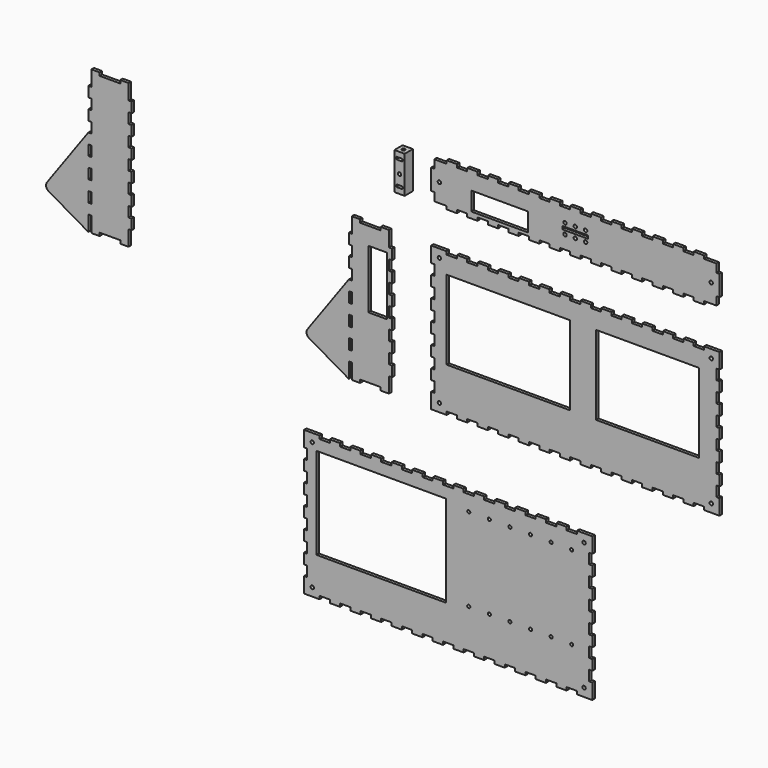
from build123d import *

# Parameters (mm, degrees)
F0_W      = 3
F0_H      = 10
F0_W_2    = 18
F0_H_2    = 57
F0_R      = 1.65
F0_W_3    = 120
F0_H_3    = 77
F0_W_4    = 100
F0_W_5    = 55
F0_H_4    = 18
F0_W_6    = 25
F0_H_5    = 3
F0_W_7    = 126
F0_H_6    = 89
F0_R_2    = 1.5
F1_DEPTH  = 3
F0_W_8    = 10
F0_H_7    = 36
F2_DEPTH  = 10
F3_R      = 1.65
F4_DEPTH  = 10
F5_R      = 1.65
F6_DEPTH  = 3
F7_R      = 1.65
F8_DEPTH  = 36
F9_W      = 6.2
F9_H      = 2.4
F10_DEPTH = 10


with BuildPart() as f1:
    # F0 (on Front) → F1 (new body)
    with BuildSketch(Plane.XZ):
        with BuildLine():
            Line((-369.000968, 86.84997), (-369.000968, 101.84997))
            Line((-369.000968, 101.84997), (-377.000968, 101.84997))
            Line((-377.000968, 101.84997), (-377.000968, 98.84997))
            Line((-377.000968, 98.84997), (-397.000968, 98.84997))
            Line((-397.000968, 98.84997), (-397.000968, 101.84997))
            Line((-397.000968, 101.84997), (-405.000968, 101.84997))
            Line((-405.000968, 101.84997), (-405.000968, 86.84997))
            Line((-405.000968, 86.84997), (-408.000968, 86.84997))
            Line((-408.000968, 86.84997), (-408.000968, 76.84997))
            Line((-408.000968, 76.84997), (-405.000968, 76.84997))
            Line((-405.000968, 76.84997), (-405.000968, 66.84997))
            Line((-405.000968, 66.84997), (-408.000968, 66.84997))
            Line((-408.000968, 66.84997), (-408.000968, 56.84997))
            Line((-408.000968, 56.84997), (-405.000968, 56.84997))
            Line((-405.000968, 56.84997), (-405.000968, 46.84997))
            Line((-405.000968, 46.84997), (-408.044243, 46.84997))
            Line((-408.044243, 46.84997), (-448.106217, -8.66153))
            ThreePointArc((-448.106217, -8.66153), (-448.940869, -12.634903), (-446.551793, -15.917685))
            Line((-446.551793, -15.917685), (-408.044243, -38.15003))
            Line((-408.044243, -38.15003), (-408.044243, -23.15003))
            Line((-408.044243, -23.15003), (-405.000968, -23.15003))
            Line((-405.000968, -23.15003), (-405.000968, -38.15003))
            Line((-405.000968, -38.15003), (-397.000968, -38.15003))
            Line((-397.000968, -38.15003), (-397.000968, -35.15003))
            Line((-397.000968, -35.15003), (-377.000968, -35.15003))
            Line((-377.000968, -35.15003), (-377.000968, -38.15003))
            Line((-377.000968, -38.15003), (-369.000968, -38.15003))
            Line((-369.000968, -38.15003), (-369.000968, -23.15003))
            Line((-369.000968, -23.15003), (-366.000968, -23.15003))
            Line((-366.000968, -23.15003), (-366.000968, -13.15003))
            Line((-366.000968, -13.15003), (-369.000968, -13.15003))
            Line((-369.000968, -13.15003), (-369.000968, -3.15003))
            Line((-369.000968, -3.15003), (-366.000968, -3.15003))
            Line((-366.000968, -3.15003), (-366.000968, 6.84997))
            Line((-366.000968, 6.84997), (-369.000968, 6.84997))
            Line((-369.000968, 6.84997), (-369.000968, 16.84997))
            Line((-369.000968, 16.84997), (-366.000968, 16.84997))
            Line((-366.000968, 16.84997), (-366.000968, 26.84997))
            Line((-366.000968, 26.84997), (-369.000968, 26.84997))
            Line((-369.000968, 26.84997), (-369.000968, 36.84997))
            Line((-369.000968, 36.84997), (-366.000968, 36.84997))
            Line((-366.000968, 36.84997), (-366.000968, 46.84997))
            Line((-366.000968, 46.84997), (-369.000968, 46.84997))
            Line((-369.000968, 46.84997), (-369.000968, 56.84997))
            Line((-369.000968, 56.84997), (-366.000968, 56.84997))
            Line((-366.000968, 56.84997), (-366.000968, 66.84997))
            Line((-366.000968, 66.84997), (-369.000968, 66.84997))
            Line((-369.000968, 66.84997), (-369.000968, 76.84997))
            Line((-369.000968, 76.84997), (-366.000968, 76.84997))
            Line((-366.000968, 76.84997), (-366.000968, 86.84997))
            Line((-366.000968, 86.84997), (-369.000968, 86.84997))
        make_face()
        with Locations((-406.500968, -8.15003)):
            Rectangle(F0_W, F0_H, mode=Mode.SUBTRACT)
        with Locations((-406.500968, 11.84997)):
            Rectangle(F0_W, F0_H, mode=Mode.SUBTRACT)
        with Locations((-406.500968, 31.84997)):
            Rectangle(F0_W, F0_H, mode=Mode.SUBTRACT)
        with BuildLine():
            Line((-116.03777, 43.5), (-116.03777, 58.5))
            Line((-116.03777, 58.5), (-124.03777, 58.5))
            Line((-124.03777, 58.5), (-124.03777, 55.5))
            Line((-124.03777, 55.5), (-144.03777, 55.5))
            Line((-144.03777, 55.5), (-144.03777, 58.5))
            Line((-144.03777, 58.5), (-152.03777, 58.5))
            Line((-152.03777, 58.5), (-152.03777, 43.5))
            Line((-152.03777, 43.5), (-155.03777, 43.5))
            Line((-155.03777, 43.5), (-155.03777, 33.5))
            Line((-155.03777, 33.5), (-152.03777, 33.5))
            Line((-152.03777, 33.5), (-152.03777, 23.5))
            Line((-152.03777, 23.5), (-155.03777, 23.5))
            Line((-155.03777, 23.5), (-155.03777, 13.5))
            Line((-155.03777, 13.5), (-152.03777, 13.5))
            Line((-152.03777, 13.5), (-152.03777, 3.5))
            Line((-152.03777, 3.5), (-155.03777, 3.5))
            Line((-155.03777, 3.5), (-195.099744, -52.0115))
            ThreePointArc((-195.099744, -52.0115), (-195.934396, -55.984874), (-193.54532, -59.267656))
            Line((-193.54532, -59.267656), (-155.03777, -81.5))
            Line((-155.03777, -81.5), (-155.03777, -66.5))
            Line((-155.03777, -66.5), (-152.03777, -66.5))
            Line((-152.03777, -66.5), (-152.03777, -81.5))
            Line((-152.03777, -81.5), (-144.03777, -81.5))
            Line((-144.03777, -81.5), (-144.03777, -78.5))
            Line((-144.03777, -78.5), (-124.03777, -78.5))
            Line((-124.03777, -78.5), (-124.03777, -81.5))
            Line((-124.03777, -81.5), (-116.03777, -81.5))
            Line((-116.03777, -81.5), (-116.03777, -66.5))
            Line((-116.03777, -66.5), (-113.03777, -66.5))
            Line((-113.03777, -66.5), (-113.03777, -56.5))
            Line((-113.03777, -56.5), (-116.03777, -56.5))
            Line((-116.03777, -56.5), (-116.03777, -46.5))
            Line((-116.03777, -46.5), (-113.03777, -46.5))
            Line((-113.03777, -46.5), (-113.03777, -36.5))
            Line((-113.03777, -36.5), (-116.03777, -36.5))
            Line((-116.03777, -36.5), (-116.03777, -26.5))
            Line((-116.03777, -26.5), (-113.03777, -26.5))
            Line((-113.03777, -26.5), (-113.03777, -16.5))
            Line((-113.03777, -16.5), (-116.03777, -16.5))
            Line((-116.03777, -16.5), (-116.03777, -6.5))
            Line((-116.03777, -6.5), (-113.03777, -6.5))
            Line((-113.03777, -6.5), (-113.03777, 3.5))
            Line((-113.03777, 3.5), (-116.03777, 3.5))
            Line((-116.03777, 3.5), (-116.03777, 13.5))
            Line((-116.03777, 13.5), (-113.03777, 13.5))
            Line((-113.03777, 13.5), (-113.03777, 23.5))
            Line((-113.03777, 23.5), (-116.03777, 23.5))
            Line((-116.03777, 23.5), (-116.03777, 33.5))
            Line((-116.03777, 33.5), (-113.03777, 33.5))
            Line((-113.03777, 33.5), (-113.03777, 43.5))
            Line((-113.03777, 43.5), (-116.03777, 43.5))
        make_face()
        with Locations((-153.53777, -51.5)):
            Rectangle(F0_W, F0_H, mode=Mode.SUBTRACT)
        with Locations((-153.53777, -31.5)):
            Rectangle(F0_W, F0_H, mode=Mode.SUBTRACT)
        with Locations((-153.53777, -11.5)):
            Rectangle(F0_W, F0_H, mode=Mode.SUBTRACT)
        with Locations((-127.03777, 10)):
            Rectangle(F0_W_2, F0_H_2, mode=Mode.SUBTRACT)
        Polygon((-75, -66.5), (-75, -81.5), (-60, -81.5), (-60, -78.5), (-50, -78.5), (-50, -81.5), (-40, -81.5), (-40, -78.5), (-30, -78.5), (-30, -81.5), (-20, -81.5), (-20, -78.5), (-10, -78.5), (-10, -81.5), (0, -81.5), (0, -78.5), (10, -78.5), (10, -81.5), (20, -81.5), (20, -78.5), (30, -78.5), (30, -81.5), (40, -81.5), (40, -78.5), (50, -78.5), (50, -81.5), (60, -81.5), (60, -78.5), (70, -78.5), (70, -81.5), (80, -81.5), (80, -78.5), (90, -78.5), (90, -81.5), (100, -81.5), (100, -78.5), (110, -78.5), (110, -81.5), (120, -81.5), (120, -78.5), (130, -78.5), (130, -81.5), (140, -81.5), (140, -78.5), (150, -78.5), (150, -81.5), (160, -81.5), (160, -78.5), (170, -78.5), (170, -81.5), (180, -81.5), (180, -78.5), (190, -78.5), (190, -81.5), (205, -81.5), (205, -66.5), (202, -66.5), (202, -56.5), (205, -56.5), (205, -46.5), (202, -46.5), (202, -36.5), (205, -36.5), (205, -26.5), (202, -26.5), (202, -16.5), (205, -16.5), (205, -6.5), (202, -6.5), (202, 3.5), (205, 3.5), (205, 13.5), (202, 13.5), (202, 23.5), (205, 23.5), (205, 33.5), (202, 33.5), (202, 43.5), (205, 43.5), (205, 58.5), (190, 58.5), (190, 55.5), (180, 55.5), (180, 58.5), (170, 58.5), (170, 55.5), (160, 55.5), (160, 58.5), (150, 58.5), (150, 55.5), (140, 55.5), (140, 58.5), (130, 58.5), (130, 55.5), (120, 55.5), (120, 58.5), (110, 58.5), (110, 55.5), (100, 55.5), (100, 58.5), (90, 58.5), (90, 55.5), (80, 55.5), (80, 58.5), (70, 58.5), (70, 55.5), (60, 55.5), (60, 58.5), (50, 58.5), (50, 55.5), (40, 55.5), (40, 58.5), (30, 58.5), (30, 55.5), (20, 55.5), (20, 58.5), (10, 58.5), (10, 55.5), (0, 55.5), (0, 58.5), (-10, 58.5), (-10, 55.5), (-20, 55.5), (-20, 58.5), (-30, 58.5), (-30, 55.5), (-40, 55.5), (-40, 58.5), (-50, 58.5), (-50, 55.5), (-60, 55.5), (-60, 58.5), (-75, 58.5), (-75, 43.5), (-72, 43.5), (-72, 33.5), (-75, 33.5), (-75, 23.5), (-72, 23.5), (-72, 13.5), (-75, 13.5), (-75, 3.5), (-72, 3.5), (-72, -6.5), (-75, -6.5), (-75, -16.5), (-72, -16.5), (-72, -26.5), (-75, -26.5), (-75, -36.5), (-72, -36.5), (-72, -46.5), (-75, -46.5), (-75, -56.5), (-72, -56.5), (-72, -66.5), align=None)
        with Locations((-67, -73.5)):
            Circle(F0_R, mode=Mode.SUBTRACT)
        with Locations((197, -73.5)):
            Circle(F0_R, mode=Mode.SUBTRACT)
        Rectangle(F0_W_3, F0_H_3, mode=Mode.SUBTRACT)
        with Locations((135, 0)):
            Rectangle(F0_W_4, F0_H_3, mode=Mode.SUBTRACT)
        with Locations((-67, 50.5)):
            Circle(F0_R, mode=Mode.SUBTRACT)
        with Locations((197, 50.5)):
            Circle(F0_R, mode=Mode.SUBTRACT)
        Polygon((-60, 97.254502), (-60, 94.254502), (-50, 94.254502), (-50, 97.254502), (-40, 97.254502), (-40, 94.254502), (-30, 94.254502), (-30, 97.254502), (-20, 97.254502), (-20, 94.254502), (-10, 94.254502), (-10, 97.254502), (0, 97.254502), (0, 94.254502), (10, 94.254502), (10, 97.254502), (20, 97.254502), (20, 94.254502), (30, 94.254502), (30, 97.254502), (40, 97.254502), (40, 94.254502), (50, 94.254502), (50, 97.254502), (60, 97.254502), (60, 94.254502), (70, 94.254502), (70, 97.254502), (80, 97.254502), (80, 94.254502), (90, 94.254502), (90, 97.254502), (100, 97.254502), (100, 94.254502), (110, 94.254502), (110, 97.254502), (120, 97.254502), (120, 94.254502), (130, 94.254502), (130, 97.254502), (140, 97.254502), (140, 94.254502), (150, 94.254502), (150, 97.254502), (160, 97.254502), (160, 94.254502), (170, 94.254502), (170, 97.254502), (180, 97.254502), (180, 94.254502), (190, 94.254502), (190, 97.254502), (202, 97.254502), (202, 105.254502), (205, 105.254502), (205, 125.254502), (202, 125.254502), (202, 133.254502), (190, 133.254502), (190, 136.254502), (180, 136.254502), (180, 133.254502), (170, 133.254502), (170, 136.254502), (160, 136.254502), (160, 133.254502), (150, 133.254502), (150, 136.254502), (140, 136.254502), (140, 133.254502), (130, 133.254502), (130, 136.254502), (120, 136.254502), (120, 133.254502), (110, 133.254502), (110, 136.254502), (100, 136.254502), (100, 133.254502), (90, 133.254502), (90, 136.254502), (80, 136.254502), (80, 133.254502), (70, 133.254502), (70, 136.254502), (60, 136.254502), (60, 133.254502), (50, 133.254502), (50, 136.254502), (40, 136.254502), (40, 133.254502), (30, 133.254502), (30, 136.254502), (20, 136.254502), (20, 133.254502), (10, 133.254502), (10, 136.254502), (0, 136.254502), (0, 133.254502), (-10, 133.254502), (-10, 136.254502), (-20, 136.254502), (-20, 133.254502), (-30, 133.254502), (-30, 136.254502), (-40, 136.254502), (-40, 133.254502), (-50, 133.254502), (-50, 136.254502), (-60, 136.254502), (-60, 133.254502), (-72, 133.254502), (-72, 125.254502), (-75, 125.254502), (-75, 105.254502), (-72, 105.254502), (-72, 97.254502), align=None)
        with Locations((-67, 115.254502)):
            Circle(F0_R, mode=Mode.SUBTRACT)
        with Locations((-8.5, 109.254502)):
            Rectangle(F0_W_5, F0_H_4, mode=Mode.SUBTRACT)
        with Locations((55, 110.254502)):
            Circle(F0_R, mode=Mode.SUBTRACT)
        with Locations((65, 110.254502)):
            Circle(F0_R, mode=Mode.SUBTRACT)
        with Locations((75, 110.254502)):
            Circle(F0_R, mode=Mode.SUBTRACT)
        with Locations((55, 120.254502)):
            Circle(F0_R, mode=Mode.SUBTRACT)
        with Locations((65, 115.254502)):
            Rectangle(F0_W_6, F0_H_5, mode=Mode.SUBTRACT)
        with Locations((65, 120.254502)):
            Circle(F0_R, mode=Mode.SUBTRACT)
        with Locations((75, 120.254502)):
            Circle(F0_R, mode=Mode.SUBTRACT)
        with Locations((197, 115.254502)):
            Circle(F0_R, mode=Mode.SUBTRACT)
        Polygon((-183.5, -139.251875), (-198.5, -139.251875), (-198.5, -154.251875), (-195.5, -154.251875), (-195.5, -164.251875), (-198.5, -164.251875), (-198.5, -174.251875), (-195.5, -174.251875), (-195.5, -184.251875), (-198.5, -184.251875), (-198.5, -194.251875), (-195.5, -194.251875), (-195.5, -204.251875), (-198.5, -204.251875), (-198.5, -214.251875), (-195.5, -214.251875), (-195.5, -224.251875), (-198.5, -224.251875), (-198.5, -234.251875), (-195.5, -234.251875), (-195.5, -244.251875), (-198.5, -244.251875), (-198.5, -254.251875), (-195.5, -254.251875), (-195.5, -264.251875), (-198.5, -264.251875), (-198.5, -279.251875), (-193.5, -279.251875), (-183.5, -279.251875), (-183.5, -276.251875), (-173.5, -276.251875), (-173.5, -279.251875), (-163.5, -279.251875), (-163.5, -276.251875), (-153.5, -276.251875), (-153.5, -279.251875), (-143.5, -279.251875), (-143.5, -276.251875), (-133.5, -276.251875), (-133.5, -279.251875), (-123.5, -279.251875), (-123.5, -276.251875), (-113.5, -276.251875), (-113.5, -279.251875), (-103.5, -279.251875), (-103.5, -276.251875), (-93.5, -276.251875), (-93.5, -279.251875), (-83.5, -279.251875), (-83.5, -276.251875), (-73.5, -276.251875), (-73.5, -279.251875), (-63.5, -279.251875), (-63.5, -276.251875), (-53.5, -276.251875), (-53.5, -279.251875), (-43.5, -279.251875), (-43.5, -276.251875), (-33.5, -276.251875), (-33.5, -279.251875), (-23.5, -279.251875), (-23.5, -276.251875), (-13.5, -276.251875), (-13.5, -279.251875), (-3.5, -279.251875), (-3.5, -276.251875), (6.5, -276.251875), (6.5, -279.251875), (16.5, -279.251875), (16.5, -276.251875), (26.5, -276.251875), (26.5, -279.251875), (36.5, -279.251875), (36.5, -276.251875), (46.5, -276.251875), (46.5, -279.251875), (56.5, -279.251875), (56.5, -276.251875), (66.5, -276.251875), (66.5, -279.251875), (81.5, -279.251875), (81.5, -264.251875), (78.5, -264.251875), (78.5, -254.251875), (81.5, -254.251875), (81.5, -244.251875), (78.5, -244.251875), (78.5, -234.251875), (81.5, -234.251875), (81.5, -224.251875), (78.5, -224.251875), (78.5, -214.251875), (81.5, -214.251875), (81.5, -204.251875), (78.5, -204.251875), (78.5, -194.251875), (81.5, -194.251875), (81.5, -184.251875), (78.5, -184.251875), (78.5, -174.251875), (81.5, -174.251875), (81.5, -164.251875), (78.5, -164.251875), (78.5, -154.251875), (81.5, -154.251875), (81.5, -139.251875), (66.5, -139.251875), (66.5, -142.251875), (56.5, -142.251875), (56.5, -139.251875), (46.5, -139.251875), (46.5, -142.251875), (36.5, -142.251875), (36.5, -139.251875), (26.5, -139.251875), (26.5, -142.251875), (16.5, -142.251875), (16.5, -139.251875), (6.5, -139.251875), (6.5, -142.251875), (-3.5, -142.251875), (-3.5, -139.251875), (-13.5, -139.251875), (-13.5, -142.251875), (-23.5, -142.251875), (-23.5, -139.251875), (-33.5, -139.251875), (-33.5, -142.251875), (-43.5, -142.251875), (-43.5, -139.251875), (-53.5, -139.251875), (-53.5, -142.251875), (-63.5, -142.251875), (-63.5, -139.251875), (-73.5, -139.251875), (-73.5, -142.251875), (-83.5, -142.251875), (-83.5, -139.251875), (-93.5, -139.251875), (-93.5, -142.251875), (-103.5, -142.251875), (-103.5, -139.251875), (-113.5, -139.251875), (-113.5, -142.251875), (-123.5, -142.251875), (-123.5, -139.251875), (-133.5, -139.251875), (-133.5, -142.251875), (-143.5, -142.251875), (-143.5, -139.251875), (-153.5, -139.251875), (-153.5, -142.251875), (-163.5, -142.251875), (-163.5, -139.251875), (-173.5, -139.251875), (-173.5, -142.251875), (-183.5, -142.251875), align=None)
        with Locations((-190.5, -271.251875)):
            Circle(F0_R, mode=Mode.SUBTRACT)
        with Locations((-123.5, -197.751875)):
            Rectangle(F0_W_7, F0_H_6, mode=Mode.SUBTRACT)
        with Locations((-190.5, -147.251875)):
            Circle(F0_R, mode=Mode.SUBTRACT)
        with Locations((-38.5, -238.251875)):
            Circle(F0_R_2, mode=Mode.SUBTRACT)
        with Locations((-18.5, -238.251875)):
            Circle(F0_R_2, mode=Mode.SUBTRACT)
        with Locations((1.5, -238.251875)):
            Circle(F0_R_2, mode=Mode.SUBTRACT)
        with Locations((21.5, -238.251875)):
            Circle(F0_R_2, mode=Mode.SUBTRACT)
        with Locations((73.5, -271.251875)):
            Circle(F0_R, mode=Mode.SUBTRACT)
        with Locations((41.5, -238.251875)):
            Circle(F0_R_2, mode=Mode.SUBTRACT)
        with Locations((61.5, -238.251875)):
            Circle(F0_R_2, mode=Mode.SUBTRACT)
        with Locations((-38.5, -157.251875)):
            Circle(F0_R_2, mode=Mode.SUBTRACT)
        with Locations((-18.5, -157.251875)):
            Circle(F0_R_2, mode=Mode.SUBTRACT)
        with Locations((1.5, -157.251875)):
            Circle(F0_R_2, mode=Mode.SUBTRACT)
        with Locations((21.5, -157.251875)):
            Circle(F0_R_2, mode=Mode.SUBTRACT)
        with Locations((41.5, -157.251875)):
            Circle(F0_R_2, mode=Mode.SUBTRACT)
        with Locations((61.5, -157.251875)):
            Circle(F0_R_2, mode=Mode.SUBTRACT)
        with Locations((73.5, -147.251875)):
            Circle(F0_R, mode=Mode.SUBTRACT)
    extrude(amount=F1_DEPTH)


with BuildPart() as f2:
    # F0 (on Front) → F2 (new body)
    with BuildSketch(Plane.XZ):
        with Locations((-100.171114, 115.254502)):
            Rectangle(F0_W_8, F0_H_7)
    extrude(amount=F2_DEPTH)

    # F3 (on face) → F4 (cut)
    with BuildSketch(Plane.XZ.offset(10)):
        with Locations((-100.171114, 114.254502)):
            Circle(F3_R)
    extrude(amount=-F4_DEPTH, mode=Mode.SUBTRACT)

    # F5 (on face) → F6 (cut)
    with BuildSketch(Plane(origin=(0, 0, 0), x_dir=(-1, 0, 0), z_dir=(0, 1, 0))):
        Polygon((97.421114, 115.842215), (97.421114, 112.666788), (100.171114, 111.079075), (102.921114, 112.666788), (102.921114, 115.842215), (100.171114, 117.429928), align=None)
        with Locations((100.171114, 114.254502)):
            Circle(F5_R, mode=Mode.SUBTRACT)
        Polygon((97.421114, 115.842215), (97.421114, 112.666788), (100.171114, 111.079075), (102.921114, 112.666788), (102.921114, 115.842215), (100.171114, 117.429928), align=None)
        with Locations((100.171114, 114.254502)):
            Circle(F5_R, mode=Mode.SUBTRACT)
    extrude(amount=-F6_DEPTH, mode=Mode.SUBTRACT)

    # F7 (on face) → F8 (cut)
    with BuildSketch(Plane(origin=(0, 0, 97.254502), x_dir=(1, 0, 0), z_dir=(0, 0, -1))):
        with Locations((-100.171114, 5)):
            Circle(F7_R)
    extrude(amount=-F8_DEPTH, mode=Mode.SUBTRACT)

    # F9 (on face) → F10 (cut)
    with BuildSketch(Plane(origin=(0, 0, 0), x_dir=(-1, 0, 0), z_dir=(0, 1, 0))):
        with Locations((100.171114, 103.454502)):
            Rectangle(F9_W, F9_H)
        with Locations((100.171114, 127.054502)):
            Rectangle(F9_W, F9_H)
    extrude(amount=-F10_DEPTH, mode=Mode.SUBTRACT)


solid = Compound([f1.part, f2.part])
